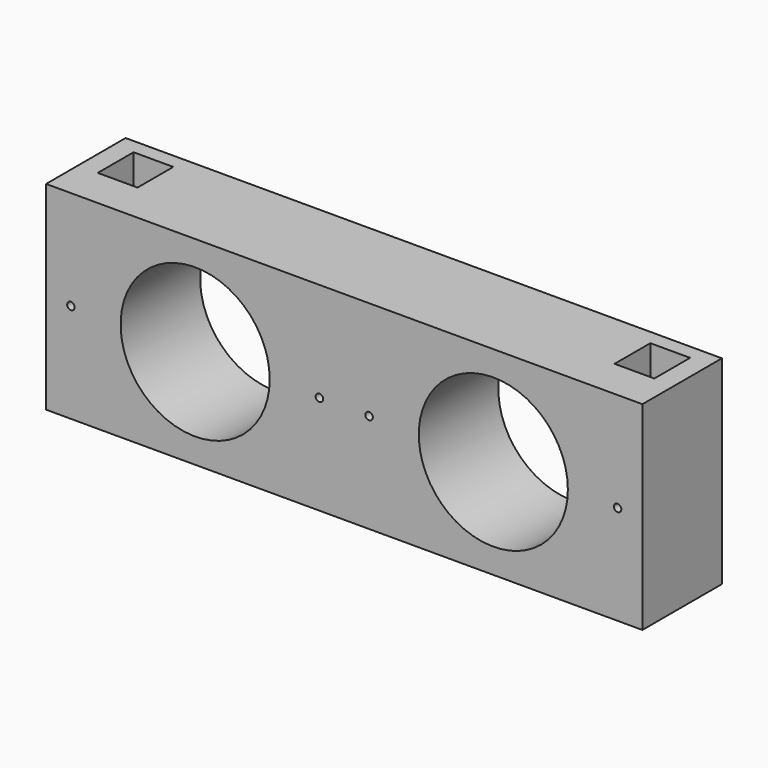
from build123d import *

# Parameters (mm, degrees)
CYLINDER001_R          = 0.75
CYLINDER001_DEPTH      = 10
CYLINDER001_ROLL_ANGLE = 90
CYLINDER002_R          = 0.75
CYLINDER002_DEPTH      = 10
CYLINDER002_ROLL_ANGLE = 90
CYLINDER_R             = 15
CYLINDER_DEPTH         = 20
CYLINDER_ROLL_ANGLE    = 90
BOX001_W               = 8
BOX001_H               = 9
BOX001_DEPTH           = 40
BOX002_W               = 8
BOX002_H               = 9
BOX002_DEPTH           = 40
BOX_W                  = 120
BOX_H                  = 20
BOX_DEPTH              = 40


with BuildPart() as zylinder001:
    # Cylinder001 → Cylinder001 (new body)
    with BuildSketch(Plane.XY):
        Circle(CYLINDER001_R)
    extrude(amount=CYLINDER001_DEPTH)


with BuildPart() as zylinder001_1:
    # Cylinder001 roll: moved
    add(zylinder001.part.rotate(Axis((0, 0, 0), (1, 0, 0)), CYLINDER001_ROLL_ANGLE))


with BuildPart() as zylinder001_2:
    # Cylinder001 placement: moved
    add(zylinder001_1.part.moved(Location((0, 10, 20))))


with BuildPart() as zylinder002:
    # Cylinder002 → Cylinder002 (new body)
    with BuildSketch(Plane.XY):
        Circle(CYLINDER002_R)
    extrude(amount=CYLINDER002_DEPTH)


with BuildPart() as zylinder002_1:
    # Cylinder002 roll: moved
    add(zylinder002.part.rotate(Axis((0, 0, 0), (1, 0, 0)), CYLINDER002_ROLL_ANGLE))


with BuildPart() as zylinder002_2:
    # Cylinder002 placement: moved
    add(zylinder002_1.part.moved(Location((50, 10, 20))))


with BuildPart() as zylinder:
    # Cylinder → Cylinder (new body)
    with BuildSketch(Plane.XY):
        Circle(CYLINDER_R)
    extrude(amount=CYLINDER_DEPTH)


with BuildPart() as zylinder_1:
    # Cylinder roll: moved
    add(zylinder.part.rotate(Axis((0, 0, 0), (1, 0, 0)), CYLINDER_ROLL_ANGLE))


with BuildPart() as zylinder_2:
    # Cylinder placement: moved
    add(zylinder_1.part.moved(Location((25, 20, 20))))


with BuildPart() as fusion001:
    # Fusion001 base: copy of Zylinder
    add(zylinder_2.part)

    # Fusion001: union Zylinder001, Zylinder002
    add(zylinder001_2.part)
    add(zylinder002_2.part)


with BuildPart() as cube001:
    # Box001 → Box001 (new body)
    with BuildSketch(Plane(origin=(-1, 8, 0), x_dir=(1, 0, 0), z_dir=(0, 0, 1))):
        with Locations((4, 4.5)):
            Rectangle(BOX001_W, BOX001_H)
    extrude(amount=BOX001_DEPTH)


with BuildPart() as cube002:
    # Box002 → Box002 (new body)
    with BuildSketch(Plane(origin=(103, 8, 0), x_dir=(1, 0, 0), z_dir=(0, 0, 1))):
        with Locations((4, 4.5)):
            Rectangle(BOX002_W, BOX002_H)
    extrude(amount=BOX002_DEPTH)


with BuildPart() as fusion002:
    # Fusion base: copy of Zylinder
    add(zylinder_2.part)

    # Fusion: union Zylinder001, Zylinder002
    add(zylinder001_2.part)
    add(zylinder002_2.part)


with BuildPart() as fusion002_1:
    # Fusion placement: moved
    add(fusion002.part.moved(Location((60, 0, 0))))

    # Fusion002: union Fusion001, Cube001, Cube002
    add(fusion001.part)
    add(cube001.part)
    add(cube002.part)


with BuildPart() as motorhalterung:
    # Box → Box (new body)
    with BuildSketch(Plane(origin=(-5, 0, 0), x_dir=(1, 0, 0), z_dir=(0, 0, 1))):
        with Locations((60, 10)):
            Rectangle(BOX_W, BOX_H)
    extrude(amount=BOX_DEPTH)

    # Cut: cut Fusion002
    add(fusion002_1.part, mode=Mode.SUBTRACT)


solid = motorhalterung.part
